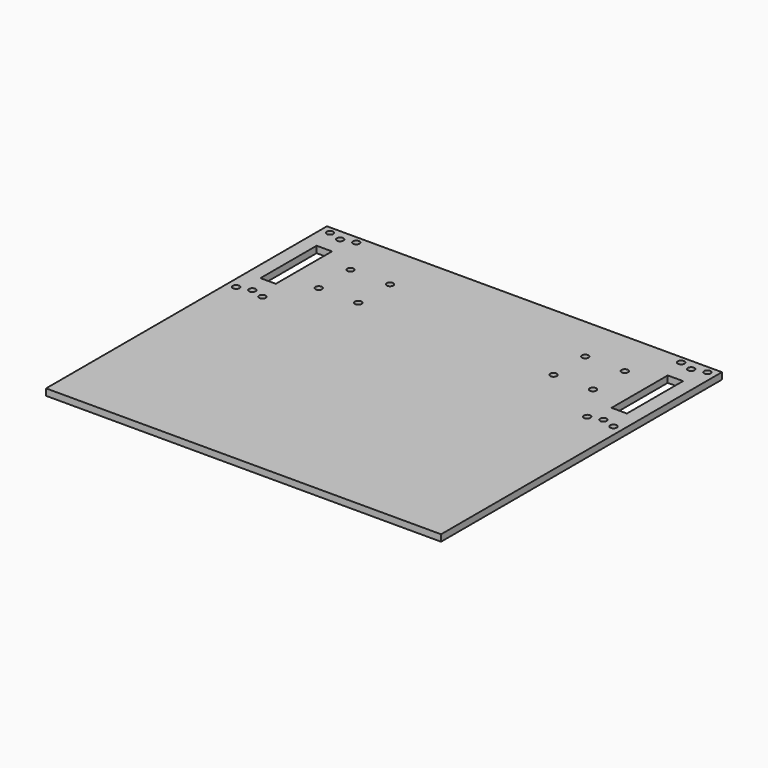
from build123d import *

# Parameters (mm, degrees)
SKETCH_W   = 90
SKETCH_H   = 160
SKETCH_R   = 1.5
SKETCH_W_2 = 7
SKETCH_H_2 = 32
PAD_DEPTH  = 3


with BuildPart() as part:
    # Sketch → Pad (new body)
    with BuildSketch(Plane.XY):
        with Locations((45, 80)):
            Rectangle(SKETCH_W, SKETCH_H)
        with Locations((10, 155)):
            Circle(SKETCH_R, mode=Mode.SUBTRACT)
        with Locations((10, 105)):
            Circle(SKETCH_R, mode=Mode.SUBTRACT)
        with Locations((27.5, 139.05)):
            Circle(SKETCH_R, mode=Mode.SUBTRACT)
        with Locations((45.5, 139.05)):
            Circle(SKETCH_R, mode=Mode.SUBTRACT)
        with Locations((27.5, 120.95)):
            Circle(SKETCH_R, mode=Mode.SUBTRACT)
        with Locations((45.5, 120.95)):
            Circle(SKETCH_R, mode=Mode.SUBTRACT)
        with Locations((4, 156.75)):
            Circle(SKETCH_R, mode=Mode.SUBTRACT)
        with Locations((16, 156.75)):
            Circle(SKETCH_R, mode=Mode.SUBTRACT)
        with Locations((4, 103.25)):
            Circle(SKETCH_R, mode=Mode.SUBTRACT)
        with Locations((16, 103.25)):
            Circle(SKETCH_R, mode=Mode.SUBTRACT)
        with Locations((10, 130)):
            Rectangle(SKETCH_W_2, SKETCH_H_2, mode=Mode.SUBTRACT)
    pad = extrude(amount=PAD_DEPTH)

    # Mirrored: Pad across face of Pad
    add(pad.mirror(Plane(origin=(90, 80, 1.5), x_dir=(0, 1, 0), z_dir=(1, 0, 0))))


solid = part.part
